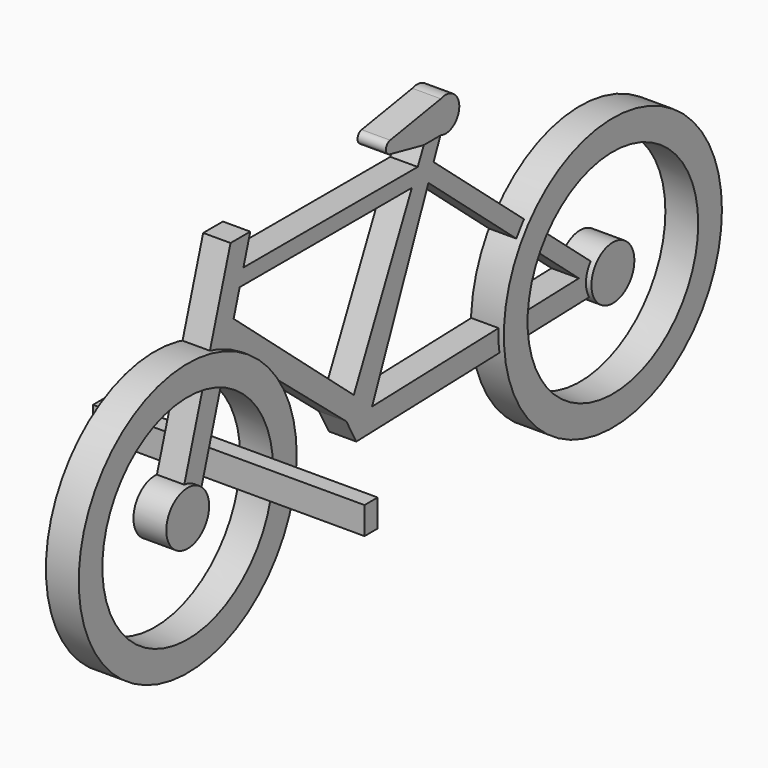
from build123d import *

# Parameters (mm, degrees)
F0_R      = 15.8123837024
F0_R_2    = 12.3826401133
F2_DEPTH  = 3.81
F0_R_3    = 3.1085165774
F1_R      = 15.8168802923
F1_R_2    = 12.3770214214
F3_DEPTH  = 3.81
F1_R_3    = 3.1129993009
F5_DEPTH  = 3.175
F6_DEPTH  = 3.175
F7_W      = 31.5075162798
F7_H      = 1.9095465541
F8_DEPTH  = 3.175
F10_DEPTH = 3.302


with BuildPart() as f2:
    # F0 (on Right) → F2 (new body)
    with BuildSketch(Plane.YZ):
        with Locations((-41.4371602237, 0)):
            Circle(F0_R)
        with Locations((-41.4371602237, 0)):
            Circle(F0_R_2, mode=Mode.SUBTRACT)
    extrude(amount=F2_DEPTH)


with BuildPart() as f2b:
    # F0 (on Right) → F2, piece 2 (new body)
    with BuildSketch(Plane.YZ):
        with Locations((-41.4371602237, 0)):
            Circle(F0_R_3)
    extrude(amount=F2_DEPTH)


with BuildPart() as f3:
    # F1 (on Right) → F3 (new body)
    with BuildSketch(Plane.YZ):
        with Locations((20.2411916107, 0)):
            Circle(F1_R)
        with Locations((20.2411916107, 0)):
            Circle(F1_R_2, mode=Mode.SUBTRACT)
    extrude(amount=F3_DEPTH)


with BuildPart() as f3b:
    # F1 (on Right) → F3, piece 2 (new body)
    with BuildSketch(Plane.YZ):
        with Locations((20.2411916107, 0)):
            Circle(F1_R_3)
    extrude(amount=F3_DEPTH)


with BuildPart() as f5:
    # F4 (on Right) → F5 (new body)
    with BuildSketch(Plane.YZ):
        Polygon((-6.3615562394, 23.7216372043), (-7.2772825496, 21.7935438685), (-8.1280829839, 20.0021542042), (-16.5539788906, 2.261139706), (-13.9042651281, 0), (-5.7258781987, 19.5379385445), (-4.9671542544, 21.3505089113), (-3.9746235125, 23.7216372043), align=None)
    extrude(amount=F5_DEPTH)


with BuildPart() as f6:
    # F4 (on Right) → F6 (new body)
    with BuildSketch(Plane.YZ):
        Polygon((-34.4318896532, 25.0583179295), (-41.7836457491, 0.9980315808), (-39.2057560384, 0), (-34.8363752453, 14.3344676299), (-33.9829678651, 17.1342099836), (-33.1087714375, 20.0021542042), (-32.5627264923, 21.7935438685), (-31.5675698221, 25.0583179295), align=None)
        Polygon((-33.9829678651, 17.1342099836), (-34.8363752453, 14.3344676299), (-17.6278818399, 0), (-16.5539788906, 2.261139706), align=None)
        Polygon((-7.2772825496, 21.7935438685), (-32.5627264923, 21.7935438685), (-33.1087714375, 20.0021542042), (-8.1280829839, 20.0021542042), align=None)
        Polygon((-16.5539788906, 2.261139706), (-17.6278818399, 0), (-13.9042651281, 0), align=None)
        Polygon((-13.9042651281, 0), (-17.6278818399, 0), (-16.1835990411, -2.6471492632), (19.018196273, -1.5774777948), (16.1011736358, 0.9117705916), align=None)
        Polygon((-6.3615562394, 23.7216372043), (-7.2772825496, 21.7935438685), (-8.1280829839, 20.0021542042), (-16.5539788906, 2.261139706), (-13.9042651281, 0), (-5.7258781987, 19.5379385445), (-4.9671542544, 21.3505089113), (-3.9746235125, 23.7216372043), align=None)
        Polygon((-5.7258781987, 19.5379385445), (16.1011736358, 0.9117705916), (18.9399346709, 0.9980315808), (-4.9671542544, 21.3505089113), align=None)
        Polygon((18.9399346709, 0.9980315808), (16.1011736358, 0.9117705916), (19.018196273, -1.5774777948), align=None)
    extrude(amount=F6_DEPTH)


with BuildPart() as f8:
    # F7 (on Top) → F8 (new body)
    with BuildSketch(Plane.XY):
        with Locations((2.7688415721, -33.2261100411)):
            Rectangle(F7_W, F7_H)
    extrude(amount=F8_DEPTH)


with BuildPart() as f10:
    # F9 (on Right) → F10 (new body)
    with BuildSketch(Plane.YZ):
        with BuildLine():
            Line((-6.5662190318, 23.7738545984), (-4.0838085115, 23.7738545984))
            ThreePointArc((-4.0838085115, 23.7738545984), (-1.4064656713, 25.6356624886), (-4.0838085115, 27.4974703789))
            Line((-4.0838085115, 27.4974703789), (-11.4355627447, 26.2562651187))
            ThreePointArc((-11.4355627447, 26.2562651187), (-12.0408799384, 25.5401851609), (-11.4355627447, 24.8241052032))
            Line((-11.4355627447, 24.8241052032), (-6.5662190318, 23.7738545984))
        make_face()
    extrude(amount=F10_DEPTH)


solid = Compound([f2.part, f2b.part, f3.part, f3b.part, f5.part, f6.part, f8.part, f10.part])
